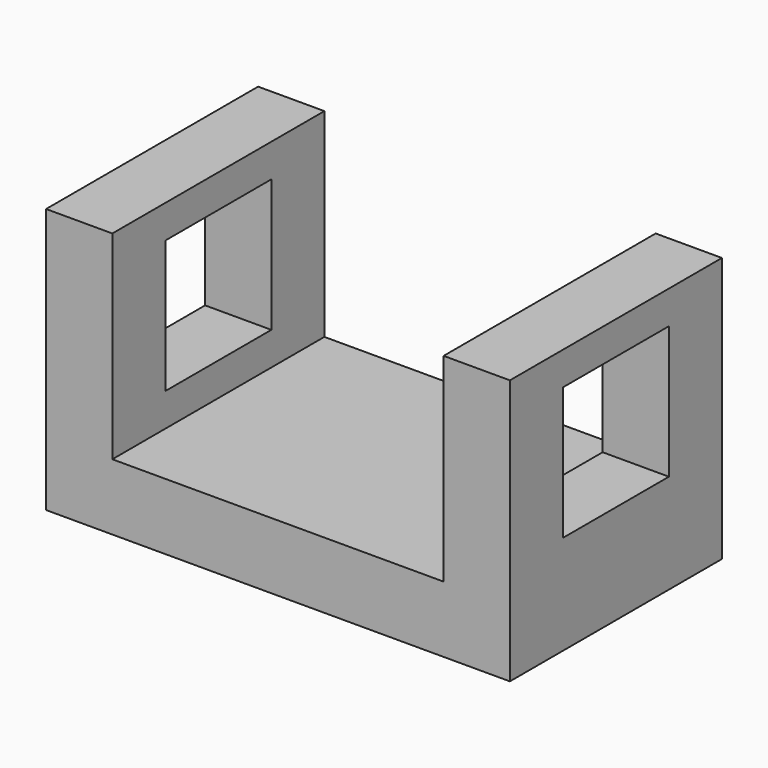
from build123d import *

# Parameters (mm, degrees)
F1_DEPTH = 50.8
F2_W     = 25.4
F2_H     = 25.4
F3_DEPTH = 88.901


with BuildPart() as f1:
    # F0 (on Front) → F1 (new body)
    with BuildSketch(Plane.XZ):
        Polygon((-39.050656, 38.1), (-51.750656, 38.1), (-51.750656, -12.7), (37.149344, -12.7), (37.149344, 38.1), (24.449344, 38.1), (24.449344, 0), (-39.050656, 0), align=None)
    extrude(amount=F1_DEPTH)

    # F2 (on face) → F3 (cut, through all)
    with BuildSketch(Plane.YZ.offset(37.149344)):
        with Locations((-25.4, 19.05)):
            Rectangle(F2_W, F2_H)
    extrude(amount=-F3_DEPTH, mode=Mode.SUBTRACT)


solid = f1.part
